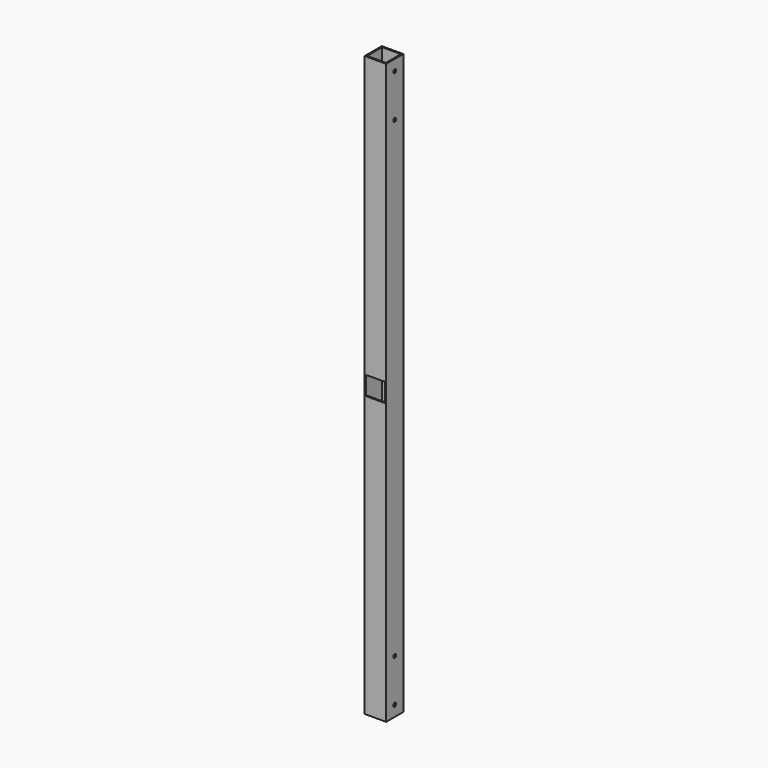
from build123d import *

# Parameters (mm, degrees)
F0_W     = 25.4
F0_H     = 25.4
F0_W_2   = 22.225
F0_H_2   = 22.225
F1_DEPTH = 685.8
F2_W     = 22.225
F2_H     = 22.225
F3_DEPTH = 12.7
F4_R     = 3.175
F5_DEPTH = 1.5875
F6_R     = 2.15265
F7_DEPTH = 25.4


with BuildPart() as f1:
    # F0 (on Top) → F1 (new body)
    with BuildSketch(Plane.XY):
        Rectangle(F0_W, F0_H)
        Rectangle(F0_W_2, F0_H_2, mode=Mode.SUBTRACT)
    extrude(amount=F1_DEPTH)

    # F2 (on Front) → F3 (cut, through all)
    with BuildSketch(Plane.XZ):
        with Locations((0, 342.9)):
            Rectangle(F2_W, F2_H)
    extrude(amount=F3_DEPTH, mode=Mode.SUBTRACT)

    # F4 (on face) → F5 (cut, through all)
    with BuildSketch(Plane(origin=(0, 12.7, 0), x_dir=(-1, 0, 0), z_dir=(0, 1, 0))):
        with Locations((0, 342.9)):
            Circle(F4_R)
    extrude(amount=-F5_DEPTH, mode=Mode.SUBTRACT)

    # F6 (on face) → F7 (cut, through all)
    with BuildSketch(Plane(origin=(-12.7, 0, 0), x_dir=(0, -1, 0), z_dir=(-1, 0, 0))):
        with Locations((0, 12.7)):
            Circle(F6_R)
        with Locations((0, 63.5)):
            Circle(F6_R)
        with Locations((0, 673.1)):
            Circle(F6_R)
        with Locations((0, 622.3)):
            Circle(F6_R)
    extrude(amount=-F7_DEPTH, mode=Mode.SUBTRACT)


solid = f1.part
